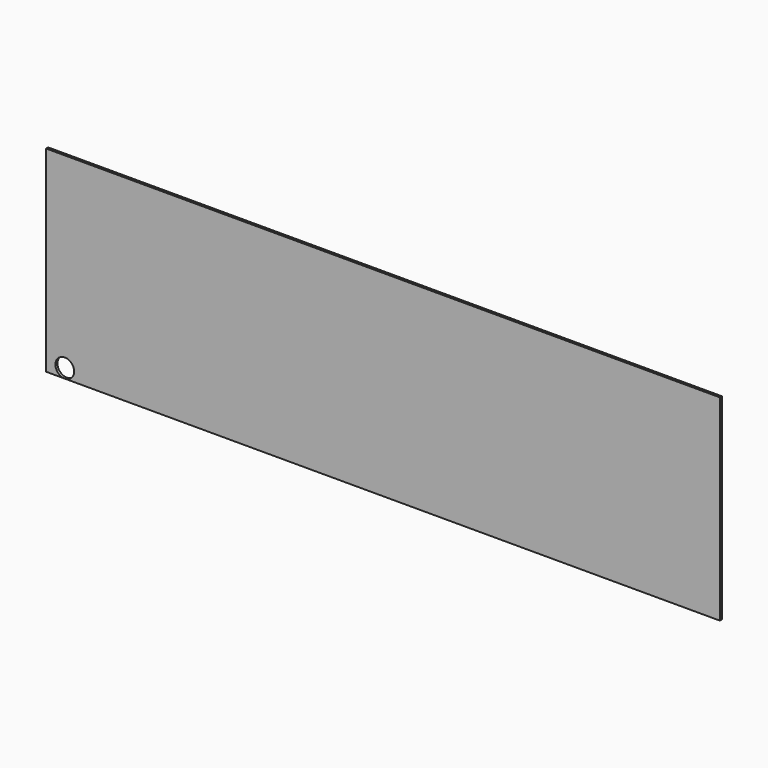
from build123d import *

# Parameters (mm, degrees)
F1_DEPTH = 3.4036


with BuildPart() as f1:
    # F0 (on Front) → F1 (new body)
    with BuildSketch(Plane.XZ):
        with BuildLine():
            Line((-430.997183184, -133.35), (-432.602816816, -133.35))
            ThreePointArc((-432.602816816, -133.35), (-431.8, -133.3754), (-430.997183184, -133.35))
        make_face()
    extrude(amount=F1_DEPTH)


with BuildPart() as f1b:
    # F0 (on Front) → F1, piece 2 (new body)
    with BuildSketch(Plane.XZ):
        with BuildLine():
            Line((457.2, 133.35), (-457.2, 133.35))
            Line((-457.2, 133.35), (-457.2, -133.35))
            Line((-457.2, -133.35), (-432.602816816, -133.35))
            ThreePointArc((-432.602816816, -133.35), (-440.4917842368, -111.4156544969), (-419.1, -120.6754))
            ThreePointArc((-419.1, -120.6754), (-422.5402544969, -129.3671842368), (-430.997183184, -133.35))
            Line((-430.997183184, -133.35), (457.2, -133.35))
            Line((457.2, -133.35), (457.2, 133.35))
        make_face()
    extrude(amount=F1_DEPTH)


solid = Compound([f1.part, f1b.part])
